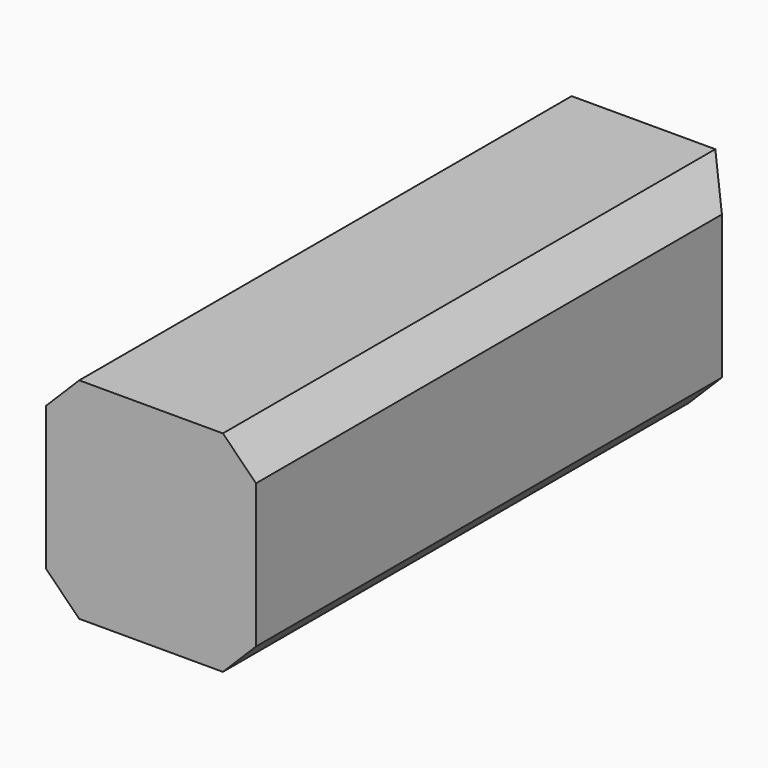
from build123d import *

# Parameters (mm, degrees)
SKETCH006_W       = 19
SKETCH006_H       = 19
PAD004_DEPTH      = 5
PAD004_DEPTH_BACK = 14
CHAMFER001_SIZE   = 3
PAD005_DEPTH      = 36.7


with BuildPart() as part:
    # Sketch006 → Pad004 (new body, two sides)
    with BuildSketch(Plane.XY) as pad004_sk:
        Rectangle(SKETCH006_W, SKETCH006_H)
    extrude(amount=PAD004_DEPTH)
    extrude(pad004_sk.sketch, amount=-PAD004_DEPTH_BACK)

    # Chamfer001
    chamfer001_edges = [part.edges().sort_by_distance(p)[0] for p in [
        (9.5, 9.5, -4.5),
        (-9.5, 9.5, -4.5),
        (0, 9.5, -14),
        (-9.5, 0, -14),
        (9.5, 0, -14),
        (-9.5, 0, 5),
        (9.5, 0, 5),
    ]]
    chamfer(chamfer001_edges, length=CHAMFER001_SIZE)

    # Chamfer001 Face8 → Pad005 (add)
    with BuildSketch(Plane(origin=(0, -9.5, -4.5), x_dir=(-1, 0, 0), z_dir=(0, -1, 0))):
        Polygon((-9.5, 6.5), (-9.5, -6.5), (-6.5, -9.5), (6.5, -9.5), (9.5, -6.5), (9.5, 6.5), (6.5, 9.5), (-6.5, 9.5), align=None)
    extrude(amount=PAD005_DEPTH)


solid = part.part
